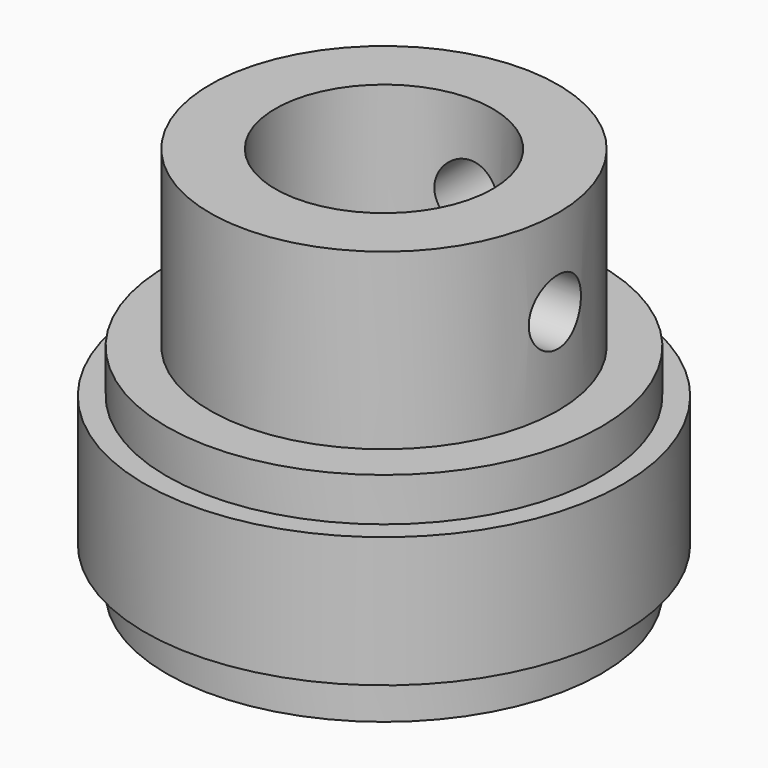
from build123d import *

# Parameters (mm, degrees)
F0_R     = 8
F0_R_2   = 5
F2_DEPTH = 18
F0_R_3   = 10
F3_DEPTH = 10
F4_START = 2
F0_R_4   = 11
F4_DEPTH = 6
F1_R     = 1.5
F5_DEPTH = 11.001
F6_R     = 1.5
F7_DEPTH = 11.001


with BuildPart() as f2:
    # F0 (on Top) → F2 (new body)
    with BuildSketch(Plane.XY):
        Circle(F0_R)
        Circle(F0_R_2, mode=Mode.SUBTRACT)
    extrude(amount=F2_DEPTH)

    # F0 (on Top) → F3 (join)
    with BuildSketch(Plane.XY):
        Circle(F0_R_3)
        Circle(F0_R, mode=Mode.SUBTRACT)
    extrude(amount=F3_DEPTH)

    # F0 (on Top) → F4 (join)
    with BuildSketch(Plane.XY.offset(F4_START)):
        Circle(F0_R_4)
        Circle(F0_R_3, mode=Mode.SUBTRACT)
    extrude(amount=F4_DEPTH)

    # F1 (on Right) → F5 (cut, through all)
    with BuildSketch(Plane.YZ):
        with Locations((0, 14)):
            Circle(F1_R)
    extrude(amount=F5_DEPTH, mode=Mode.SUBTRACT)

    # F6 (on Front) → F7 (cut, through all)
    with BuildSketch(Plane.XZ):
        with Locations((0, 14)):
            Circle(F6_R)
    extrude(amount=-F7_DEPTH, mode=Mode.SUBTRACT)


solid = f2.part
